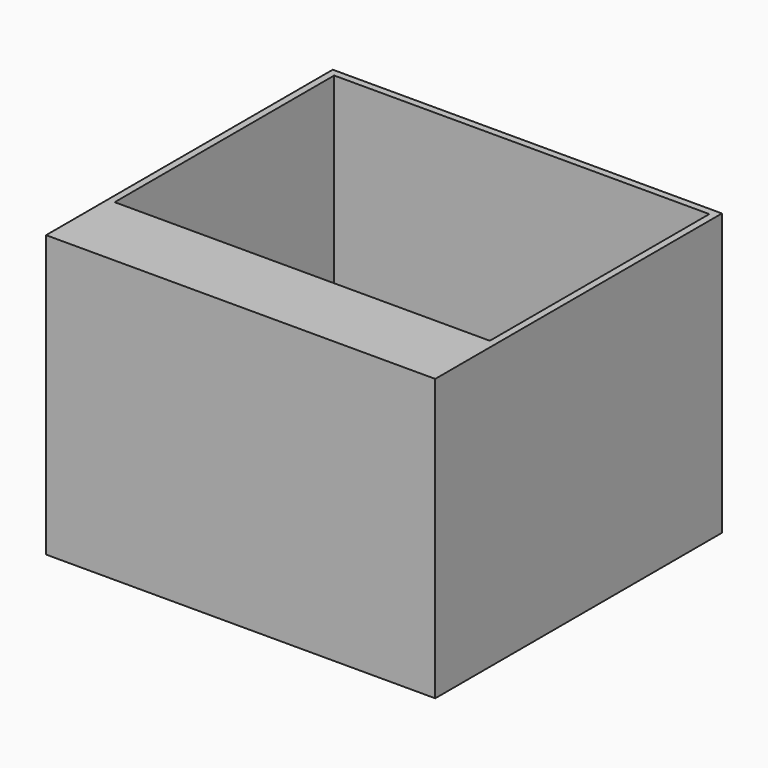
from build123d import *

# Parameters (mm, degrees)
F1_W      = 141.20084
F1_H      = 104.631812
F2_DEPTH  = 102.034964
F3_T      = -2.54
F2_FACE_W = 141.20084
F2_FACE_H = 102.034964
F4_DEPTH  = 25.4


with BuildPart() as f2:
    # F1 (on face) → F2 (new body)
    with BuildSketch(Plane.XY):
        Rectangle(F1_W, F1_H)
    extrude(amount=F2_DEPTH)

    # F3
    f3_openings = [f2.faces().sort_by_distance(p)[0] for p in [
        (0, 0, 102.034964),
    ]]
    offset(amount=F3_T, openings=f3_openings)

    # F2_face (on face) → F4 (join)
    with BuildSketch(Plane(origin=(0, -52.315906, 51.017482), x_dir=(1, 0, 0), z_dir=(0, -1, 0))):
        Rectangle(F2_FACE_W, F2_FACE_H)
    extrude(amount=F4_DEPTH)


solid = f2.part
